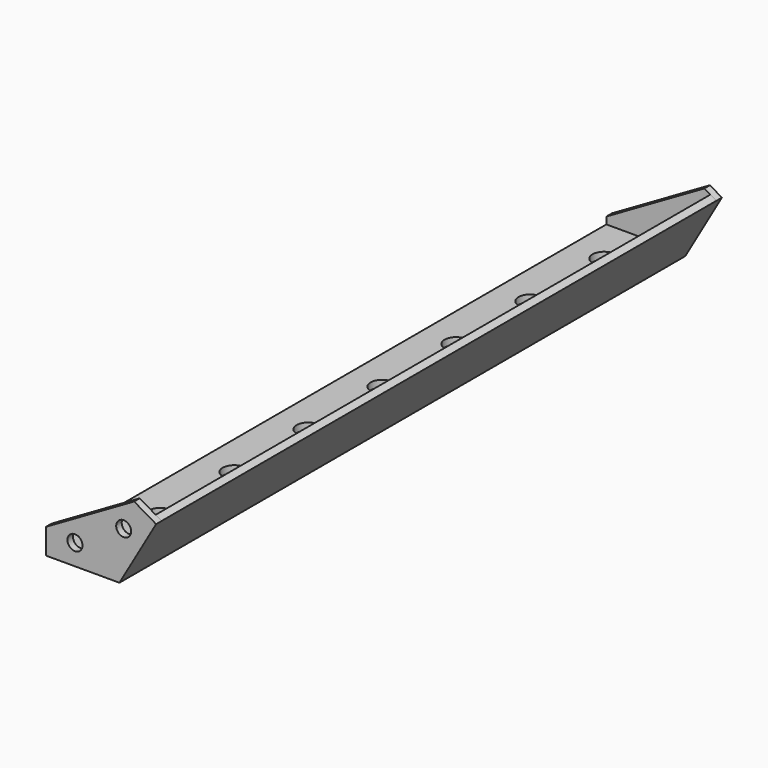
from build123d import *

# Parameters (mm, degrees)
F1_DEPTH = 600
F4_DEPTH = 6
F6_DEPTH = 6
F7_R     = 6.5
F8_DEPTH = 25
F3_R     = 10
F9_DEPTH = 25


with BuildPart() as f1:
    # F0 (on Front) → F1 (new body)
    with BuildSketch(Plane.XZ):
        Polygon((3.163387, -4.385628), (3.163387, -10.385628), (66.627489, -10.385628), (98.35954, 44.575896), (93.163387, 47.575896), (63.163387, -4.385628), align=None)
    extrude(amount=F1_DEPTH)

    # F2 (on face) → F4 (join)
    with BuildSketch(Plane(origin=(0, 0, 0), x_dir=(-1, 0, 0), z_dir=(0, 1, 0))):
        Polygon((-3.163387, -10.385628), (-3.163387, 1.614372), (-87.967235, 50.575896), (-98.35954, 44.575896), (-66.627489, -10.385628), align=None)
    extrude(amount=F4_DEPTH)

    # F5 (on face) → F6 (join)
    with BuildSketch(Plane.XZ.offset(600)):
        Polygon((3.163387, 11.614372), (3.163387, -10.385628), (66.627489, -10.385628), (98.35954, 44.575896), (79.351506, 55.652657), align=None)
    extrude(amount=F6_DEPTH)

    # F7 (on face) → F8 (cut)
    with BuildSketch(Plane.XZ.offset(606)):
        with Locations((70.307284, 31.987963)):
            Circle(F7_R)
        with Locations((28.163387, 7.614372)):
            Circle(F7_R)
    extrude(amount=-F8_DEPTH, mode=Mode.SUBTRACT)

    # F3 (on face) → F9 (cut)
    with BuildSketch(Plane.XY.offset(-4.385628)):
        with Locations((33.163387, -40)):
            Circle(F3_R)
        with Locations((33.163387, -120)):
            Circle(F3_R)
        with Locations((33.163387, -200)):
            Circle(F3_R)
        with Locations((33.163387, -280)):
            Circle(F3_R)
        with Locations((33.163387, -360)):
            Circle(F3_R)
        with Locations((33.163387, -440)):
            Circle(F3_R)
        with Locations((33.163387, -520)):
            Circle(F3_R)
    extrude(amount=-F9_DEPTH, mode=Mode.SUBTRACT)


solid = f1.part
